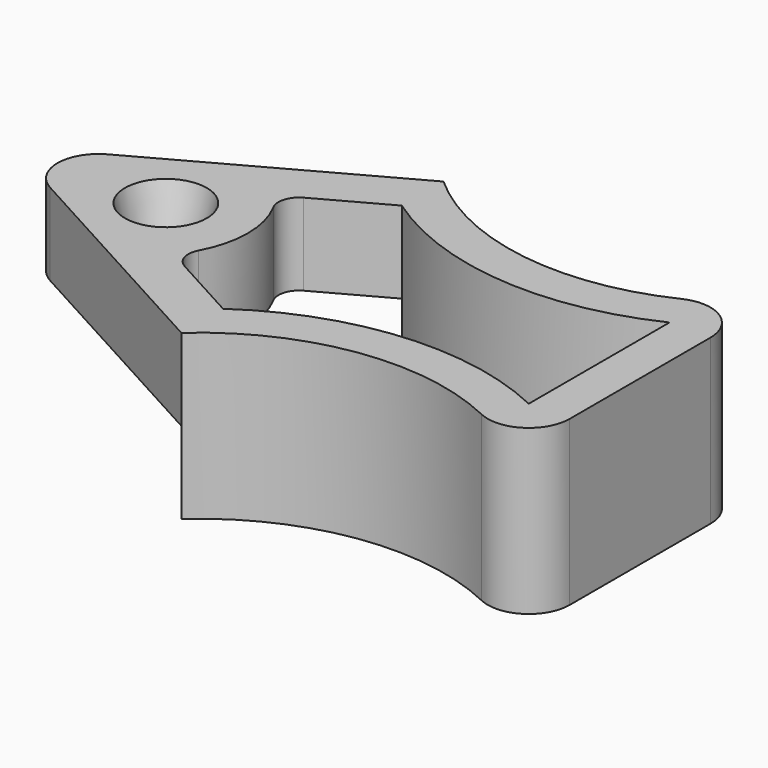
from build123d import *

# Parameters (mm, degrees)
F1_DEPTH = 12.7
F2_R     = 3.175
F3_DEPTH = 12.7
F3_TAPER = 14
F5_DEPTH = 12.7010001
F6_W     = 38.1
F6_H     = 6.35
F7_DEPTH = 25.401


with BuildPart() as f1:
    # F0 (on Top) → F1 (new body)
    with BuildSketch(Plane.XY):
        with BuildLine():
            ThreePointArc((-25.4, 25.4), (-53.7980633142, 12.7), (-25.4, 0))
            Line((-25.4, 0), (-34.5618496597, 0))
            Line((-34.5618496597, 0), (-34.5618496597, 25.4))
            Line((-34.5618496597, 25.4), (-25.4, 25.4))
        make_face()
        with BuildLine():
            Line((-34.5618496597, 0), (-25.4, 0))
            ThreePointArc((-25.4, 0), (-21.204965459, 5.7439235197), (-19.7203873372, 12.7))
            ThreePointArc((-19.7203873372, 12.7), (-21.204965459, 19.6560764803), (-25.4, 25.4))
            Line((-25.4, 25.4), (-34.5618496597, 25.4))
            Line((-34.5618496597, 25.4), (-34.5618496597, 0))
        make_face()
        with BuildLine():
            ThreePointArc((-19.7203873372, 12.7), (-21.204965459, 5.7439235197), (-25.4, 0))
            ThreePointArc((-25.4, 0), (-15.4225737421, 4.6554132358), (-4.5357142857, 3.0127938932))
            ThreePointArc((-4.5357142857, 3.0127938932), (-1.4778911139, 3.1980667262), (0, 5.8814314849))
            Line((0, 5.8814314849), (0, 19.5185685151))
            ThreePointArc((0, 19.5185685151), (-1.4778911139, 22.2019332738), (-4.5357142857, 22.3872061068))
            ThreePointArc((-4.5357142857, 22.3872061068), (-15.4225737421, 20.7445867642), (-25.4, 25.4))
            ThreePointArc((-25.4, 25.4), (-21.204965459, 19.6560764803), (-19.7203873372, 12.7))
        make_face()
    extrude(amount=F1_DEPTH)

    # F2 (on face) → F3 (cut, through all)
    with BuildSketch(Plane.XY.offset(12.7)):
        with Locations((-36.7592253257, 12.7)):
            Circle(F2_R)
    extrude(amount=-F3_DEPTH, taper=F3_TAPER, mode=Mode.SUBTRACT)

    # F4 (on face) → F5 (cut, through all)
    with BuildSketch(Plane.XY.offset(12.7)):
        with BuildLine():
            ThreePointArc((-25.4, 4.0399547456), (-14.535188109, 7.9500701216), (-3.175, 5.8814314849))
            Line((-3.175, 5.8814314849), (-3.175, 19.5185685151))
            ThreePointArc((-3.175, 19.5185685151), (-14.535188109, 17.4499298784), (-25.4, 21.3600452544))
            Line((-25.4, 21.3600452544), (-30.6912422422, 18.4625566245))
            ThreePointArc((-30.6912422422, 18.4625566245), (-31.4514193427, 17.5192344091), (-31.3248088175, 16.3143710139))
            ThreePointArc((-31.3248088175, 16.3143710139), (-30.4092253257, 12.7), (-31.3248088175, 9.0856289861))
            ThreePointArc((-31.3248088175, 9.0856289861), (-31.4514193427, 7.8807655909), (-30.6912422422, 6.9374433755))
            Line((-30.6912422422, 6.9374433755), (-25.4, 4.0399547456))
        make_face()
        with BuildLine():
            ThreePointArc((-25.4, 25.4), (-53.7980633142, 12.7), (-25.4, 0))
            Line((-25.4, 0), (-43.5066161293, 9.9151979742))
            ThreePointArc((-43.5066161293, 9.9151979742), (-45.1566562358, 12.7), (-43.5066161293, 15.4848020258))
            Line((-43.5066161293, 15.4848020258), (-25.4, 25.4))
        make_face()
    extrude(amount=-F5_DEPTH, mode=Mode.SUBTRACT)

    # F6 (on Front) → F7 (cut, through all)
    with BuildSketch(Plane.XZ):
        with Locations((-44.45, 3.175)):
            Rectangle(F6_W, F6_H)
    extrude(amount=-F7_DEPTH, mode=Mode.SUBTRACT)


solid = f1.part
